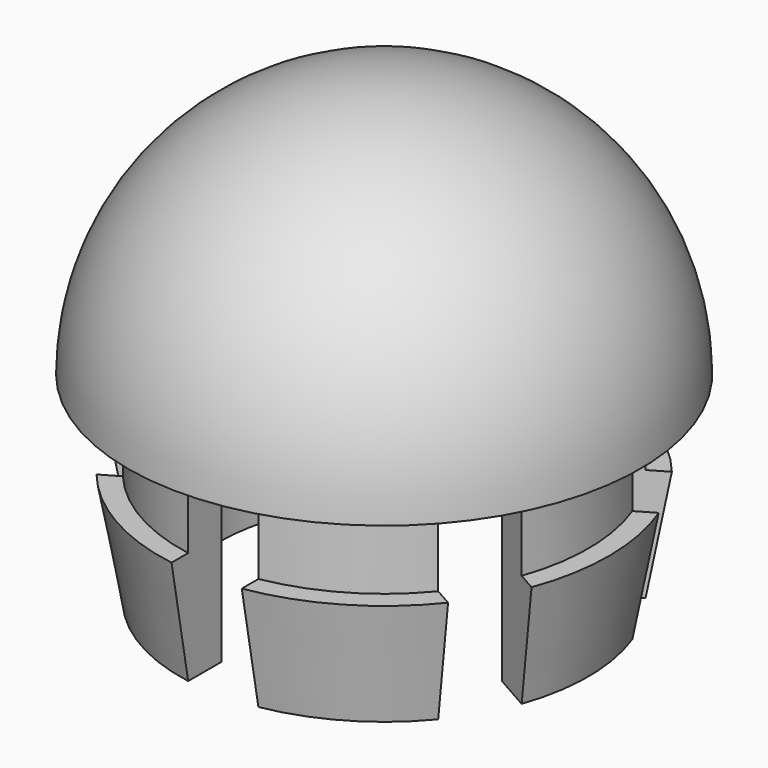
from build123d import *

# Parameters (mm, degrees)
F3_FACE_R   = 9.96
F3_FACE_R_2 = 7.96
F2_DEPTH    = 9.751


with BuildPart() as f3:
    # F0 (on Front) → F3 (revolve)
    with BuildSketch(Plane.XZ):
        with BuildLine():
            ThreePointArc((0, 12.5), (-8.8388347648, 8.8388347648), (-12.5, 0))
            Line((-12.5, 0), (-9.96, 0))
            Line((-9.96, 0), (-9.96, -4.25))
            Line((-9.96, -4.25), (-10.96, -4.25))
            Line((-10.96, -4.25), (-9.96, -9.75))
            Line((-9.96, -9.75), (-7.96, -9.75))
            Line((-7.96, -9.75), (-7.96, 0))
            ThreePointArc((-7.96, 0), (-5.6285699782, 5.6285699782), (0, 7.96))
            Line((0, 7.96), (0, 12.5))
        make_face()
    revolve(axis=Axis((0, 0, 10.23), (0, 0, -1)))

    # F1 (on Top) + F3_face (on face) → F2 (cut, through all)
    with BuildSketch(Plane.XY):
        Polygon((1.712546451, 2.9807411881), (1.712546451, 21.5978231281), (-1.712546451, 21.5978231281), (-1.712546451, 2.9374864114), (-0.0125165538, 1.9750342288), align=None)
        Polygon((17.7959412298, 12.3573158479), (1.712546451, 2.9807411881), (1.712546451, 0.998409843), (3.4376094559, 0.0217854573), (19.5210042346, 9.3983601171), align=None)
        Polygon((1.712546451, 0.998409843), (1.712546451, 2.9807411881), (-0.0125165538, 1.9750342288), align=None)
        Polygon((-0.0125165538, 1.9750342288), (-1.712546451, 2.9374864114), (-1.712546451, 0.983921502), align=None)
        Polygon((-1.712546451, 0.983921502), (-1.712546451, 2.9374864114), (-17.9511316948, 12.1307728565), (-19.6385535579, 9.1501908926), (-3.4376094559, -0.0217854573), align=None)
        Polygon((3.4376094559, 0.0217854573), (1.712546451, 0.998409843), (1.712546451, -0.983921502), align=None)
        Polygon((-1.712546451, -0.998409843), (-1.712546451, 0.983921502), (-3.4376094559, -0.0217854573), align=None)
        Polygon((3.4376094559, 0.0217854573), (1.712546451, -0.983921502), (1.712546451, -2.9374864114), (17.9511316948, -12.1307728565), (19.6385535579, -9.1501908926), align=None)
        Polygon((1.712546451, -2.9374864114), (1.712546451, -0.983921502), (0.0125165538, -1.9750342288), align=None)
        Polygon((0.0125165538, -1.9750342288), (-1.712546451, -0.998409843), (-1.712546451, -2.9807411881), align=None)
        Polygon((-1.712546451, -2.9807411881), (-1.712546451, -0.998409843), (-3.4376094559, -0.0217854573), (-19.5210042346, -9.3983601171), (-17.7959412298, -12.3573158479), align=None)
        Polygon((1.712546451, -21.5978231281), (1.712546451, -2.9374864114), (0.0125165538, -1.9750342288), (-1.712546451, -2.9807411881), (-1.712546451, -21.5978231281), align=None)
    with BuildSketch(Plane(origin=(0, 0, -9.75), x_dir=(1, 0, 0), z_dir=(0, 0, -1))):
        Circle(F3_FACE_R)
        Circle(F3_FACE_R_2, mode=Mode.SUBTRACT)
    extrude(amount=-F2_DEPTH, dir=(0, 0, 1), mode=Mode.SUBTRACT)


solid = f3.part
